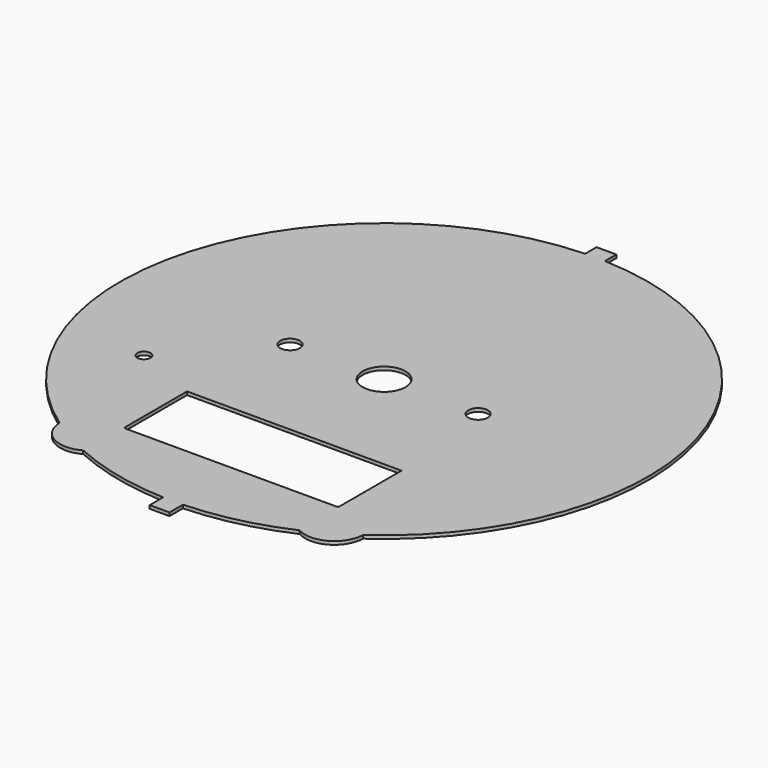
from build123d import *

# Parameters (mm, degrees)
SKETCH001_R     = 40
PAD_DEPTH       = 0.5
SKETCH_W        = 32.5
SKETCH_H        = 12
POCKET_DEPTH    = 0.501
SKETCH002_R     = 3.25
SKETCH002_R_2   = 1.5
POCKET001_DEPTH = 0.501
SKETCH003_R     = 1
POCKET002_DEPTH = 0.501
SKETCH004_W     = 3
SKETCH004_H     = 3.42
SKETCH004_H_2   = 2.91
PAD001_DEPTH    = 0.5
SKETCH005_R     = 4.42
PAD002_DEPTH    = 0.5


with BuildPart() as part:
    # Sketch001 → Pad (new body)
    with BuildSketch(Plane.XY):
        Circle(SKETCH001_R)
    extrude(amount=PAD_DEPTH)

    # Sketch → Pocket (cut, through all)
    with BuildSketch(Plane.XY):
        with Locations((0, -23)):
            Rectangle(SKETCH_W, SKETCH_H)
    extrude(amount=POCKET_DEPTH, mode=Mode.SUBTRACT)

    # Sketch002 → Pocket001 (cut, through all)
    with BuildSketch(Plane.XY):
        Circle(SKETCH002_R)
        with Locations((14.25, 0)):
            Circle(SKETCH002_R_2)
        with Locations((-14.25, 0)):
            Circle(SKETCH002_R_2)
    extrude(amount=POCKET001_DEPTH, mode=Mode.SUBTRACT)

    # Sketch003 → Pocket002 (cut, through all)
    with BuildSketch(Plane.XY):
        with Locations((-26, -13)):
            Circle(SKETCH003_R)
    extrude(amount=POCKET002_DEPTH, mode=Mode.SUBTRACT)

    # Sketch004 → Pad001 (join)
    with BuildSketch(Plane.XY):
        with Locations((0, -40.81)):
            Rectangle(SKETCH004_W, SKETCH004_H)
        with Locations((0, 40.675)):
            Rectangle(SKETCH004_W, SKETCH004_H_2)
    extrude(amount=PAD001_DEPTH)

    # Sketch005 → Pad002 (join)
    with BuildSketch(Plane.XY):
        with Locations((18.565, -32.63)):
            Circle(SKETCH005_R)
        with Locations((-18.565, -32.63)):
            Circle(SKETCH005_R)
    extrude(amount=PAD002_DEPTH)


solid = part.part
